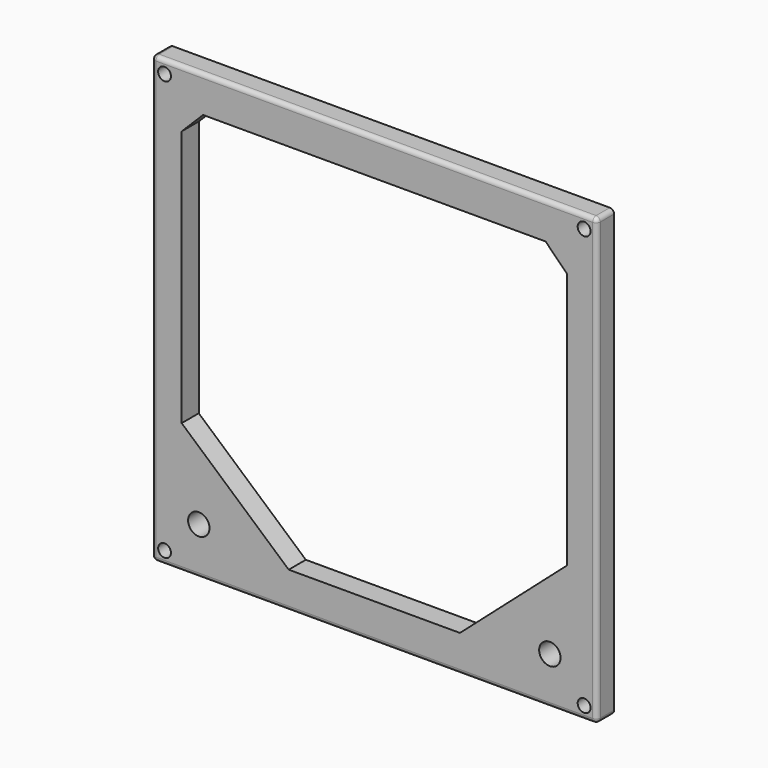
from build123d import *

# Parameters (mm, degrees)
F0_W        = 104
F0_H        = 104
F0_R        = 1.5
F0_R_2      = 2.5
F2_DEPTH    = 5
F2_FACE_W   = 104
F2_FACE_H   = 104
F2_FACE_R   = 1.5
F2_FACE_R_2 = 2.5
F3_DEPTH    = 25
F4_R        = 1


with BuildPart() as f2:
    # F0 (on Front) → F2 (new body)
    with BuildSketch(Plane.XZ):
        Rectangle(F0_W, F0_H)
        with Locations((-49, -49)):
            Circle(F0_R, mode=Mode.SUBTRACT)
        with Locations((-41, -41)):
            Circle(F0_R_2, mode=Mode.SUBTRACT)
        with Locations((49, -49)):
            Circle(F0_R, mode=Mode.SUBTRACT)
        with Locations((41, -41)):
            Circle(F0_R_2, mode=Mode.SUBTRACT)
        with Locations((-49, 49)):
            Circle(F0_R, mode=Mode.SUBTRACT)
        with Locations((49, 49)):
            Circle(F0_R, mode=Mode.SUBTRACT)
    extrude(amount=F2_DEPTH)

    # F1 (on Front) + F2_face (on face) → F3 (cut)
    with BuildSketch(Plane.XZ):
        Polygon((40, 43.5), (-40, 43.5), (-45, 38.5), (-45, -21.5), (-20, -43.5), (20, -43.5), (45, -21.5), (45, 38.5), align=None)
    with BuildSketch(Plane(origin=(0, -5, 0.149795), x_dir=(1, 0, 0), z_dir=(0, -1, 0))):
        with Locations((0, -0.149795)):
            Rectangle(F2_FACE_W, F2_FACE_H)
        with Locations((-49, -49.149795)):
            Circle(F2_FACE_R, mode=Mode.SUBTRACT)
        with Locations((-41, -41.149795)):
            Circle(F2_FACE_R_2, mode=Mode.SUBTRACT)
        with Locations((49, -49.149795)):
            Circle(F2_FACE_R, mode=Mode.SUBTRACT)
        with Locations((41, -41.149795)):
            Circle(F2_FACE_R_2, mode=Mode.SUBTRACT)
        with Locations((-49, 48.850205)):
            Circle(F2_FACE_R, mode=Mode.SUBTRACT)
        with Locations((49, 48.850205)):
            Circle(F2_FACE_R, mode=Mode.SUBTRACT)
    extrude(amount=F3_DEPTH, mode=Mode.SUBTRACT)

    # F4
    f4_edges = [f2.edges().sort_by_distance(p)[0] for p in [
        (-52, -2.5, 52),
        (-52, -5, 0),
        (0, -5, 52),
        (-52, -2.5, -52),
        (0, -5, -52),
        (52, -5, 0),
        (52, -2.5, 52),
        (52, -2.5, -52),
    ]]
    fillet(f4_edges, radius=F4_R)


solid = f2.part
